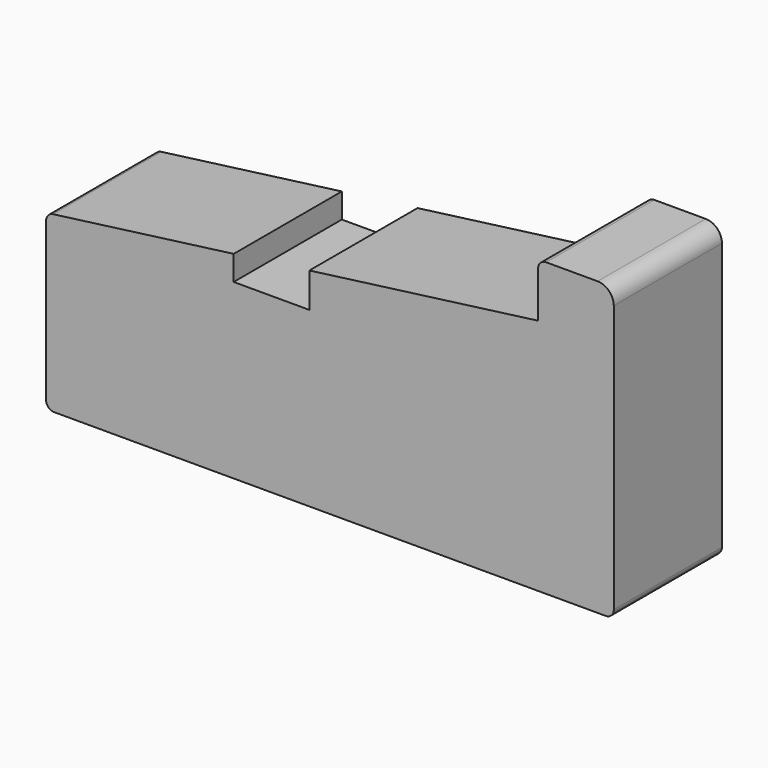
from build123d import *

# Parameters (mm, degrees)
F1_DEPTH = 25


with BuildPart() as f1:
    # F0 (on Front) → F1 (new body)
    with BuildSketch(Plane.XZ):
        with BuildLine():
            Line((-67.65018, -44), (-34.450579, -44))
            Line((-34.450579, -44), (-34.450579, -12))
            Line((-34.450579, -12), (-34.450579, -7.424228))
            Line((-34.450579, -7.424228), (-67.846284, -11.828058))
            ThreePointArc((-67.846284, -11.828058), (-68.778044, -12.326284), (-69.15018, -13.315183))
            Line((-69.15018, -13.315183), (-69.15018, -42.5))
            ThreePointArc((-69.15018, -42.5), (-68.71084, -43.56066), (-67.65018, -44))
        make_face()
        with BuildLine():
            Line((-34.450579, -44), (34.34982, -44))
            ThreePointArc((34.34982, -44), (35.410481, -43.56066), (35.84982, -42.5))
            Line((35.84982, -42.5), (35.84982, 7))
            ThreePointArc((35.84982, 7), (34.971141, 9.12132), (32.84982, 10))
            Line((32.84982, 10), (23.34982, 10))
            ThreePointArc((23.34982, 10), (22.28916, 9.56066), (21.84982, 8.5))
            Line((21.84982, 8.5), (21.84982, 0))
            Line((21.84982, 0), (-20.450579, -5.578075))
            Line((-20.450579, -5.578075), (-20.450579, -12))
            Line((-20.450579, -12), (-34.450579, -12))
            Line((-34.450579, -12), (-34.450579, -44))
        make_face()
    extrude(amount=F1_DEPTH)


solid = f1.part
